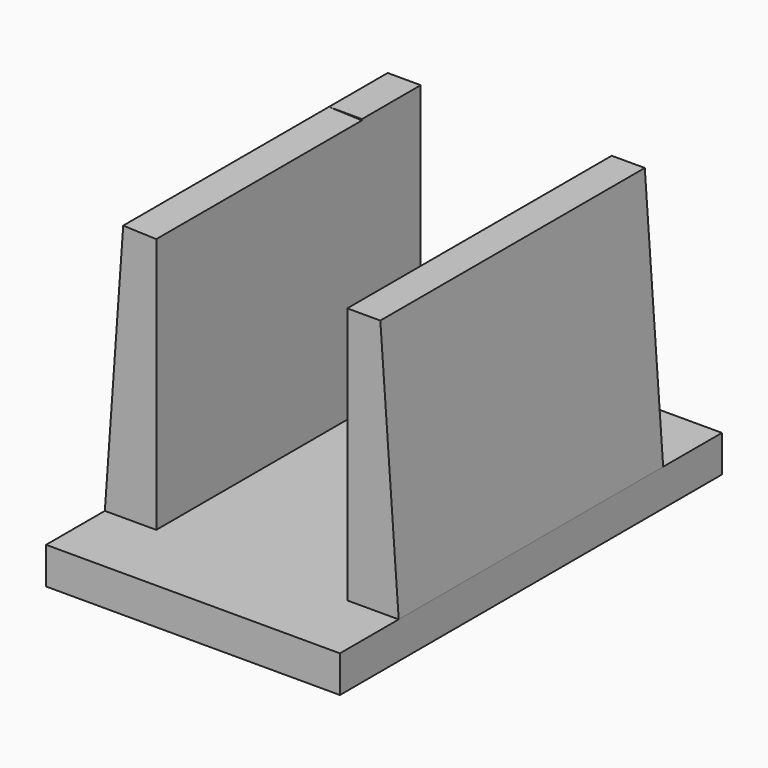
from build123d import *

# Parameters (mm, degrees)
F0_W     = 40
F0_H     = 65
F1_DEPTH = 5
F6_DEPTH = 10
F8_DEPTH = 45


with BuildPart() as f1:
    # F0 (on Top) → F1 (new body)
    with BuildSketch(Plane.XY):
        with Locations((-2.0310617983, -0.7245496807)):
            Rectangle(F0_W, F0_H)
    extrude(amount=F1_DEPTH)

    # F5 (on face) → F6 (join)
    with BuildSketch(Plane(origin=(0, 21.7754503193, 0), x_dir=(-1, 0, 0), z_dir=(0, 1, 0))):
        Polygon((15.0310617983, 40), (15.0310617983, 5), (22.0310617983, 5), (19.5310617983, 40), align=None)
        Polygon((-17.9689382017, 5), (-10.9689382017, 5), (-10.9689382017, 39.8395545781), (-15.4689382017, 40), align=None)
    extrude(amount=-F6_DEPTH)

    # F7 (on offset) → F8 (join)
    with BuildSketch(Plane.XZ.offset(23.2245496807)):
        Polygon((10.9689382017, 40), (10.9689382017, 5), (17.9689382017, 5), (15.4689382017, 40), align=None)
        Polygon((-22.0310617983, 5), (-15.0310617983, 5), (-15.0310617983, 39.8395545781), (-19.5310617983, 40), align=None)
    extrude(amount=-F8_DEPTH)


solid = f1.part
